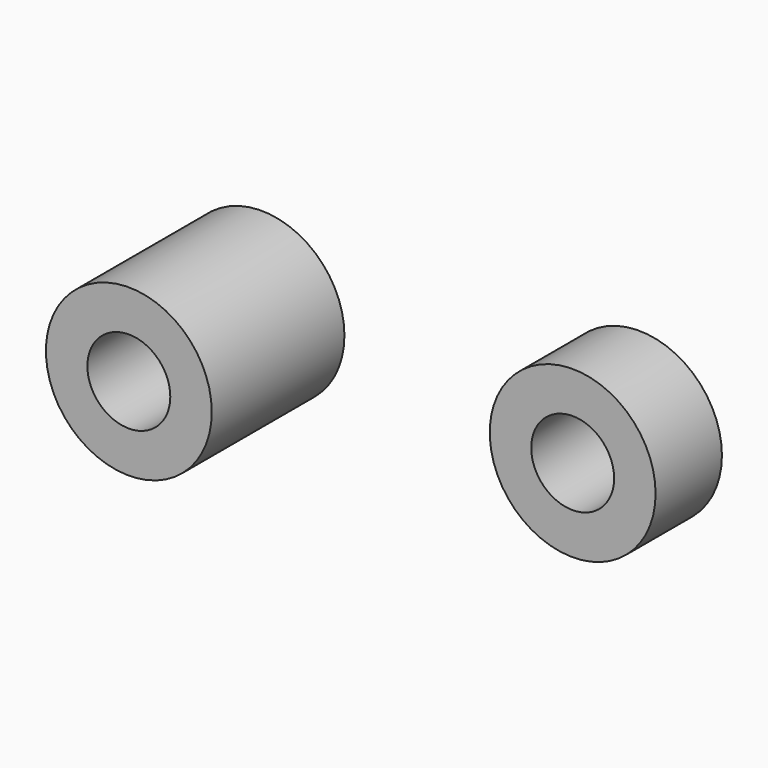
from build123d import *

# Parameters (mm, degrees)
F0_R        = 3.175
F0_R_2      = 1.5875
F1_DEPTH    = 3.175
F2_R        = 1.5875
F3_DEPTH    = 3.176
F1_FACE_R   = 3.175
F1_FACE_R_2 = 1.5875
F4_DEPTH    = 3.175


with BuildPart() as f1:
    # F0 (on Front) → F1 (new body)
    with BuildSketch(Plane.XZ):
        Circle(F0_R)
        with Locations((-14.454545, -0.657917)):
            Circle(F0_R)
        with Locations((-14.454545, -0.657917)):
            Circle(F0_R_2, mode=Mode.SUBTRACT)
    extrude(amount=F1_DEPTH)

    # F2 (on face) → F3 (cut, through all)
    with BuildSketch(Plane.XZ.offset(3.175)):
        Circle(F2_R)
    extrude(amount=-F3_DEPTH, mode=Mode.SUBTRACT)

    # F1_face (on face) → F4 (join)
    with BuildSketch(Plane.XZ.offset(3.175)):
        with Locations((-14.454545, -0.657917)):
            Circle(F1_FACE_R)
        with Locations((-14.454545, -0.657917)):
            Circle(F1_FACE_R_2, mode=Mode.SUBTRACT)
    extrude(amount=F4_DEPTH)


solid = f1.part
